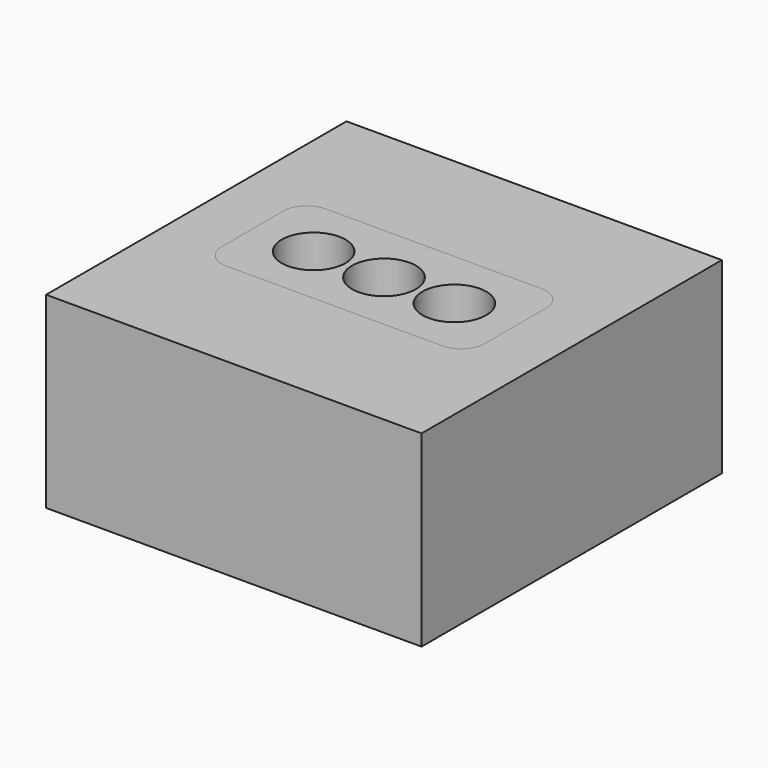
from build123d import *

# Parameters (mm, degrees)
F0_W     = 50.8
F0_H     = 50.8
F1_DEPTH = 25.4
F2_DEPTH = 22.225
F3_DEPTH = 25.4
F4_DEPTH = 3.175
F6_R     = 4.318
F7_DEPTH = 25.4


with BuildPart() as f1:
    # F0 (on Top) → F1 (new body)
    with BuildSketch(Plane.XY):
        Rectangle(F0_W, F0_H)
        with BuildLine():
            Line((14.605, -8.382), (-14.605, -8.382))
            ThreePointArc((-14.605, -8.382), (-16.850064, -7.452064), (-17.78, -5.207))
            Line((-17.78, -5.207), (-17.78, 5.207))
            ThreePointArc((-17.78, 5.207), (-16.850064, 7.452064), (-14.605, 8.382))
            Line((-14.605, 8.382), (14.605, 8.382))
            ThreePointArc((14.605, 8.382), (16.850064, 7.452064), (17.78, 5.207))
            Line((17.78, 5.207), (17.78, -5.207))
            ThreePointArc((17.78, -5.207), (16.850064, -7.452064), (14.605, -8.382))
        make_face(mode=Mode.SUBTRACT)
    extrude(amount=F1_DEPTH)

    # F0 (on Top) → F2 (join)
    with BuildSketch(Plane.XY):
        with BuildLine():
            ThreePointArc((-17.78, -5.207), (-16.850064, -7.452064), (-14.605, -8.382))
            Line((-14.605, -8.382), (14.605, -8.382))
            ThreePointArc((14.605, -8.382), (16.850064, -7.452064), (17.78, -5.207))
            Line((17.78, -5.207), (17.78, 5.207))
            ThreePointArc((17.78, 5.207), (16.850064, 7.452064), (14.605, 8.382))
            Line((14.605, 8.382), (-14.605, 8.382))
            ThreePointArc((-14.605, 8.382), (-16.850064, 7.452064), (-17.78, 5.207))
            Line((-17.78, 5.207), (-17.78, -5.207))
        make_face()
        with BuildLine():
            Line((13.0175, -6.7945), (-13.0175, -6.7945))
            ThreePointArc((-13.0175, -6.7945), (-15.262564, -5.864564), (-16.1925, -3.6195))
            Line((-16.1925, -3.6195), (-16.1925, 3.6195))
            ThreePointArc((-16.1925, 3.6195), (-15.262564, 5.864564), (-13.0175, 6.7945))
            Line((-13.0175, 6.7945), (13.0175, 6.7945))
            ThreePointArc((13.0175, 6.7945), (15.262564, 5.864564), (16.1925, 3.6195))
            Line((16.1925, 3.6195), (16.1925, -3.6195))
            ThreePointArc((16.1925, -3.6195), (15.262564, -5.864564), (13.0175, -6.7945))
        make_face(mode=Mode.SUBTRACT)
    extrude(amount=F2_DEPTH)


with BuildPart() as f3:
    # F0 (on Top) → F3 (new body)
    with BuildSketch(Plane.XY):
        with BuildLine():
            ThreePointArc((-16.1925, -3.6195), (-15.262564, -5.864564), (-13.0175, -6.7945))
            Line((-13.0175, -6.7945), (13.0175, -6.7945))
            ThreePointArc((13.0175, -6.7945), (15.262564, -5.864564), (16.1925, -3.6195))
            Line((16.1925, -3.6195), (16.1925, 3.6195))
            ThreePointArc((16.1925, 3.6195), (15.262564, 5.864564), (13.0175, 6.7945))
            Line((13.0175, 6.7945), (-13.0175, 6.7945))
            ThreePointArc((-13.0175, 6.7945), (-15.262564, 5.864564), (-16.1925, 3.6195))
            Line((-16.1925, 3.6195), (-16.1925, -3.6195))
        make_face()
    extrude(amount=F3_DEPTH)


with BuildPart() as f4:
    # F2_face (on face) → F4 (new body)
    with BuildSketch(Plane.XY.offset(22.225)):
        with BuildLine():
            ThreePointArc((-17.78, -5.207), (-16.850064, -7.452064), (-14.605, -8.382))
            Line((-14.605, -8.382), (14.605, -8.382))
            ThreePointArc((14.605, -8.382), (16.850064, -7.452064), (17.78, -5.207))
            Line((17.78, -5.207), (17.78, 5.207))
            ThreePointArc((17.78, 5.207), (16.850064, 7.452064), (14.605, 8.382))
            Line((14.605, 8.382), (-14.605, 8.382))
            ThreePointArc((-14.605, 8.382), (-16.850064, 7.452064), (-17.78, 5.207))
            Line((-17.78, 5.207), (-17.78, -5.207))
        make_face()
        with BuildLine():
            Line((13.0175, -6.7945), (-13.0175, -6.7945))
            ThreePointArc((-13.0175, -6.7945), (-15.262564, -5.864564), (-16.1925, -3.6195))
            Line((-16.1925, -3.6195), (-16.1925, 3.6195))
            ThreePointArc((-16.1925, 3.6195), (-15.262564, 5.864564), (-13.0175, 6.7945))
            Line((-13.0175, 6.7945), (13.0175, 6.7945))
            ThreePointArc((13.0175, 6.7945), (15.262564, 5.864564), (16.1925, 3.6195))
            Line((16.1925, 3.6195), (16.1925, -3.6195))
            ThreePointArc((16.1925, -3.6195), (15.262564, -5.864564), (13.0175, -6.7945))
        make_face(mode=Mode.SUBTRACT)
    extrude(amount=F4_DEPTH)


with BuildPart() as f3_1:
    add(f3.part)

    # F5: union F4
    add(f4.part)

    # F6 (on face) → F7 (cut)
    with BuildSketch(Plane.XY.offset(25.4)):
        Circle(F6_R)
        with Locations((-9.525, 0)):
            Circle(F6_R)
        with Locations((9.525, 0)):
            Circle(F6_R)
    extrude(amount=-F7_DEPTH, mode=Mode.SUBTRACT)


solid = Compound([f1.part, f3_1.part])
